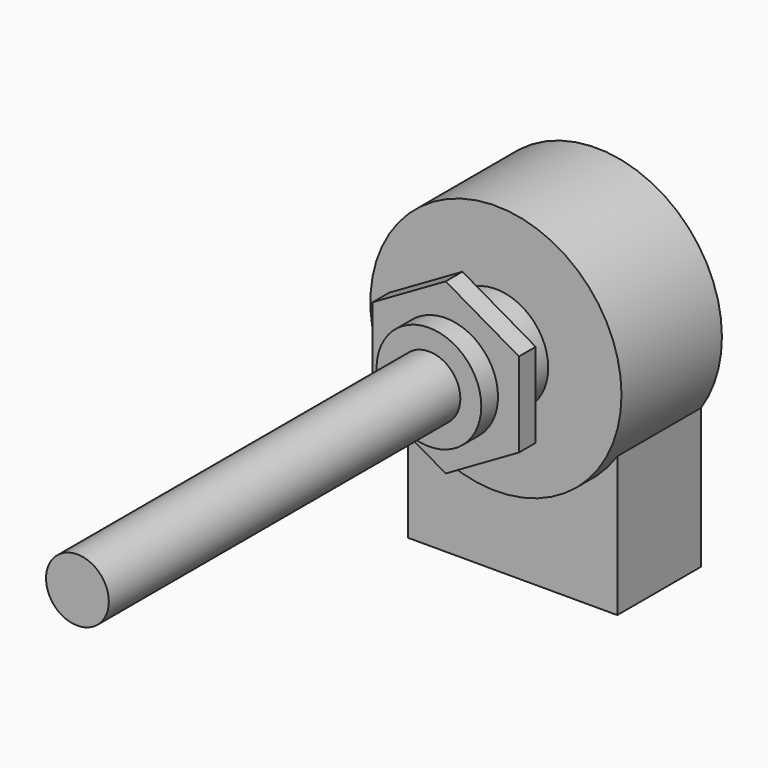
from build123d import *

# Parameters (mm, degrees)
F0_R      = 5
F1_DEPTH  = 8
F2_R      = 3
F3_DEPTH  = 42
F4_R      = 12
F5_DEPTH  = 12
F6_W      = 20
F6_H      = 20
F7_DEPTH  = 10
F10_DEPTH = 2


with BuildPart() as f1:
    # F0 (on Front) → F1 (new body)
    with BuildSketch(Plane.XZ):
        Circle(F0_R)
    extrude(amount=F1_DEPTH)

    # F2 (on face) → F3 (join)
    with BuildSketch(Plane.XZ.offset(8)):
        Circle(F2_R)
    extrude(amount=F3_DEPTH)

    # F4 (on Front) → F5 (join)
    with BuildSketch(Plane.XZ):
        Circle(F4_R)
    extrude(amount=-F5_DEPTH)

    # F6 (on face) → F7 (join)
    with BuildSketch(Plane(origin=(0, 12, 0), x_dir=(-1, 0, 0), z_dir=(0, 1, 0))):
        with Locations((0, -10)):
            Rectangle(F6_W, F6_H)
    extrude(amount=-F7_DEPTH)

    # F9 (on offset) → F10 (join)
    with BuildSketch(Plane.XZ.offset(6)):
        Polygon((7, -4.041452), (7, 4.041452), (0, 8.082904), (-7, 4.041452), (-7, -4.041452), (0, -8.082904), align=None)
    extrude(amount=-F10_DEPTH)


solid = f1.part
